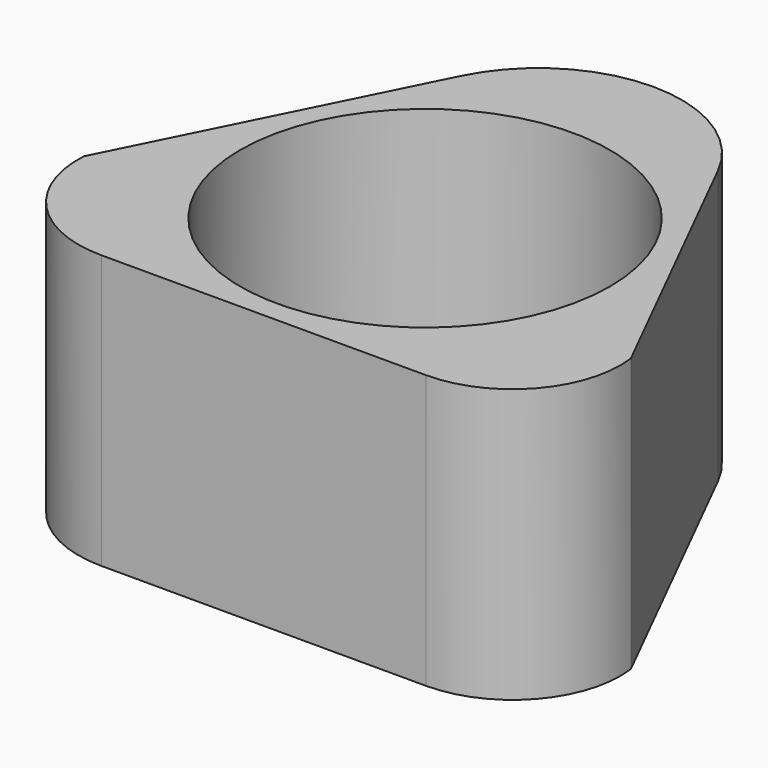
from build123d import *

# Parameters (mm, degrees)
F1_DEPTH = 125
F2_R     = 84.5
F3_DEPTH = 125


with BuildPart() as f1:
    # F0 (on Top) → F1 (new body)
    with BuildSketch(Plane.XY):
        with BuildLine():
            ThreePointArc((76.129342, -94.5), (113.221436, -77.67681), (125, -38.688241))
            Line((125, -38.688241), (58.646898, 94.012497))
            ThreePointArc((58.646898, 94.012497), (0, 130.257605), (-58.646898, 94.012497))
            Line((-58.646898, 94.012497), (-125, -38.688241))
            ThreePointArc((-125, -38.688241), (-110.638327, -77.958171), (-72.235816, -94.5))
            Line((-72.235816, -94.5), (76.129342, -94.5))
        make_face()
    extrude(amount=F1_DEPTH)

    # F2 (on Top) → F3 (cut)
    with BuildSketch(Plane.XY):
        Circle(F2_R)
    extrude(amount=F3_DEPTH, mode=Mode.SUBTRACT)


solid = f1.part
